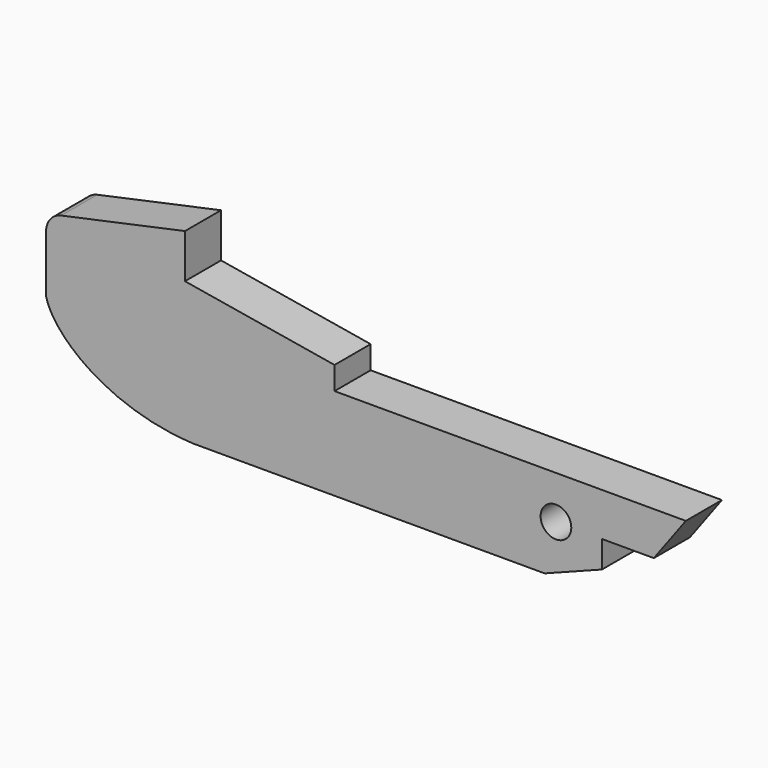
from build123d import *

# Parameters (mm, degrees)
F0_R     = 0.8
F1_DEPTH = 2.35
F2_R     = 1


with BuildPart() as f1:
    # F0 (on Front) → F1 (new body)
    with BuildSketch(Plane.XZ):
        with BuildLine():
            Line((6.766583, 2.25), (-11.533417, 2.25))
            Line((-11.533417, 2.25), (-11.533417, 3.45))
            Line((-11.533417, 3.45), (-19.32484, 4.755264))
            Line((-19.32484, 4.755264), (-19.32484, 7.055264))
            Line((-19.32484, 7.055264), (-26.559867, 5.501433))
            Line((-26.559867, 5.501433), (-26.559867, 1.701433))
            add(Edge.make_bspline(
                [(-26.559867, 1.701433), (-26.124589, -0.007734), (-23.187716, -2.351002), (-18.886218, -2.55)],
                knots=[0, 0, 0, 0, 8.77266, 8.77266, 8.77266, 8.77266], degree=3))
            Line((-18.886218, -2.55), (-0.586218, -2.55))
            Line((-0.586218, -2.55), (2.4, -1.4))
            Line((2.4, -1.4), (2.4, 0))
            Line((2.4, 0), (5.1, 0))
            Line((5.1, 0), (6.766583, 2.25))
        make_face()
        Circle(F0_R, mode=Mode.SUBTRACT)
    extrude(amount=F1_DEPTH)

    # F2
    f2_edges = [f1.edges().sort_by_distance(p)[0] for p in [
        (-26.559867, -1.175, 5.501433),
    ]]
    fillet(f2_edges, radius=F2_R)


solid = f1.part
